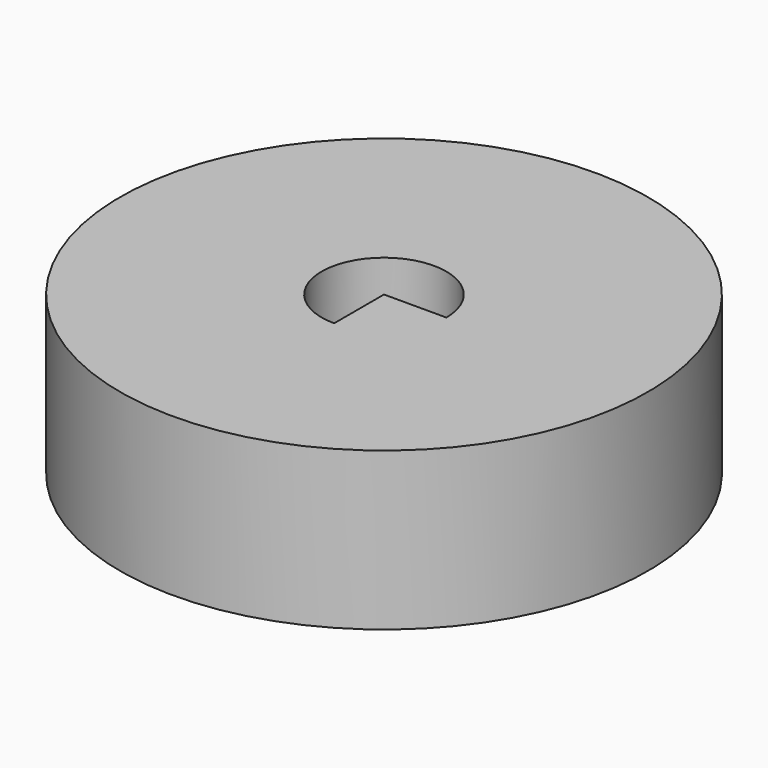
from build123d import *

# Parameters (mm, degrees)
F0_W      = 104.4943146408
F0_H      = 64.2110146582
F1_DEPTH  = 25.4
F1_FACE_W = 104.4943146408
F1_FACE_H = 64.2110146582


with BuildPart() as f1:
    # F0 (on Front) → F1 (new body)
    with BuildSketch(Plane.XZ):
        with Locations((3.3059138805, -0.1889485866)):
            Rectangle(F0_W, F0_H)
    extrude(amount=F1_DEPTH)

    # F1_face (on face) → F2 (revolve)
    with BuildSketch(Plane(origin=(3.3059138805, -25.4, -0.1889485866), x_dir=(1, 0, 0), z_dir=(0, -1, 0))):
        Rectangle(F1_FACE_W, F1_FACE_H)
    revolve(axis=Axis((-48.9412434399, 0, -0.1889485866), (0, 0, -1)))


solid = f1.part
